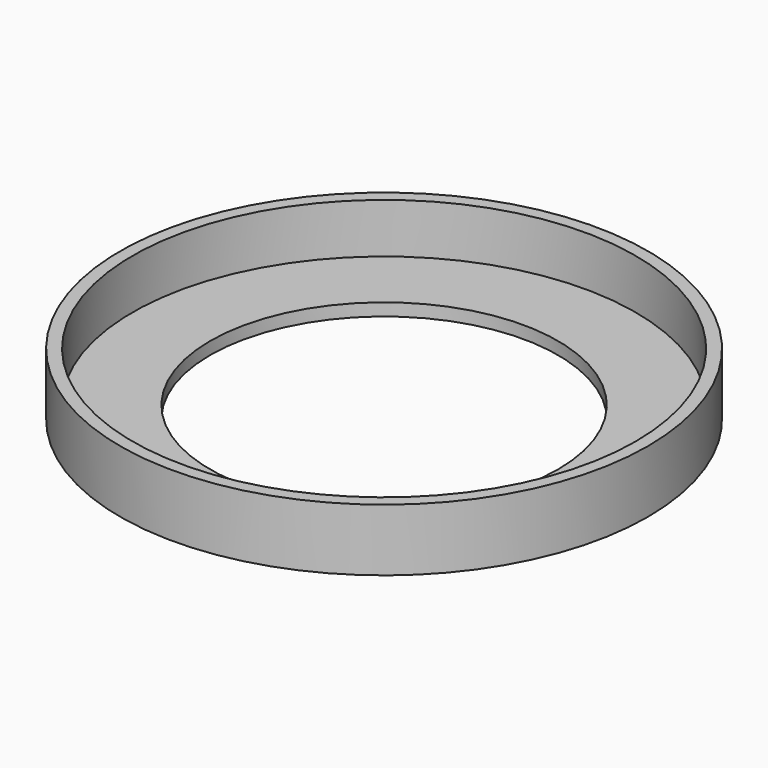
from build123d import *

# Parameters (mm, degrees)
F0_R     = 10.6
F1_DEPTH = 1
F2_T     = -0.5
F3_R     = 6.985
F4_DEPTH = 25
F5_R     = 10.6
F5_R_2   = 10.1
F6_DEPTH = 1.5


with BuildPart() as f1:
    # F0 (on Top) → F1 (new body)
    with BuildSketch(Plane.XY):
        Circle(F0_R)
    extrude(amount=F1_DEPTH)

    # F2
    f2_openings = [f1.faces().sort_by_distance(p)[0] for p in [
        (0, 0, 1),
    ]]
    offset(amount=F2_T, openings=f2_openings)

    # F3 (on face) → F4 (cut)
    with BuildSketch(Plane.XY.offset(0.5)):
        Circle(F3_R)
    extrude(amount=-F4_DEPTH, mode=Mode.SUBTRACT)

    # F5 (on face) → F6 (join)
    with BuildSketch(Plane.XY.offset(1)):
        Circle(F5_R)
        Circle(F5_R_2, mode=Mode.SUBTRACT)
    extrude(amount=F6_DEPTH)


solid = f1.part
